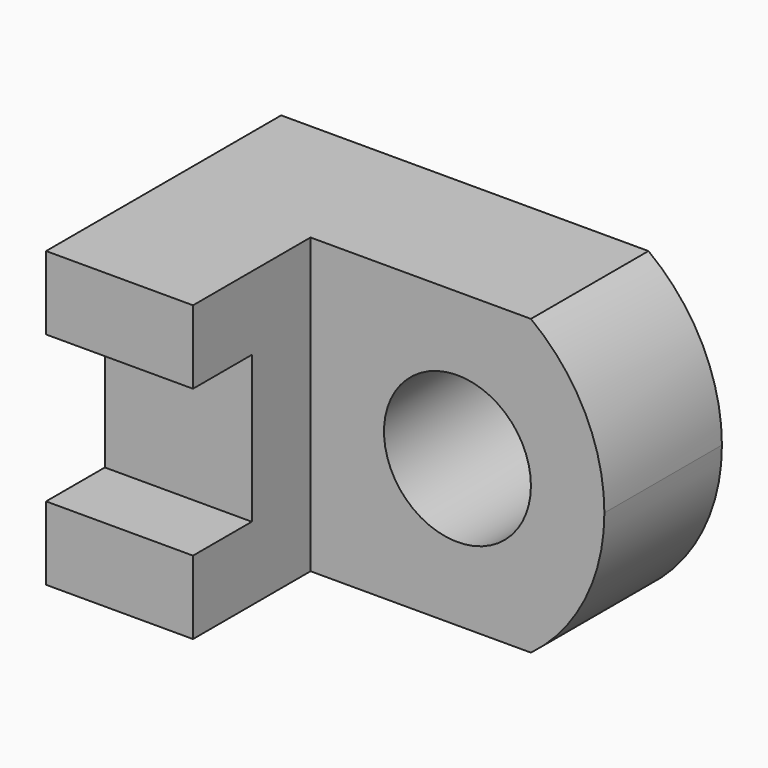
from build123d import *

# Parameters (mm, degrees)
F0_W     = 12.7
F0_H     = 25.4
F1_DEPTH = 25.4
F2_W     = 12.7
F2_H     = 12.7
F3_DEPTH = 6.35
F4_W     = 12.7
F4_H     = 25.4
F5_DEPTH = 25.4
F7_DEPTH = 12.701
F8_R     = 6.35
F9_DEPTH = 12.701


with BuildPart() as f1:
    # F0 (on Front) → F1 (new body)
    with BuildSketch(Plane.XZ):
        with Locations((6.35, -12.7)):
            Rectangle(F0_W, F0_H)
    extrude(amount=F1_DEPTH)

    # F2 (on face) → F3 (cut)
    with BuildSketch(Plane.XZ.offset(25.4)):
        with Locations((6.35, -12.7)):
            Rectangle(F2_W, F2_H)
    extrude(amount=-F3_DEPTH, mode=Mode.SUBTRACT)

    # F4 (on face) → F5 (join)
    with BuildSketch(Plane.YZ.offset(12.7)):
        with Locations((-6.35, -12.7)):
            Rectangle(F4_W, F4_H)
    extrude(amount=F5_DEPTH)

    # F6 (on face) → F7 (cut, through all)
    with BuildSketch(Plane.XZ.offset(12.7)):
        with BuildLine():
            ThreePointArc((38.1, -12.7), (36.424032, -19.799516), (31.75, -25.4))
            Line((31.75, -25.4), (38.1, -25.4))
            Line((38.1, -25.4), (38.1, -12.7))
        make_face()
        with BuildLine():
            ThreePointArc((31.75, 0), (36.424032, -5.600484), (38.1, -12.7))
            Line((38.1, -12.7), (38.1, 0))
            Line((38.1, 0), (31.75, 0))
        make_face()
    extrude(amount=-F7_DEPTH, mode=Mode.SUBTRACT)

    # F8 (on face) → F9 (cut, through all)
    with BuildSketch(Plane.XZ.offset(12.7)):
        with Locations((25.4, -12.7)):
            Circle(F8_R)
    extrude(amount=-F9_DEPTH, mode=Mode.SUBTRACT)


solid = f1.part
